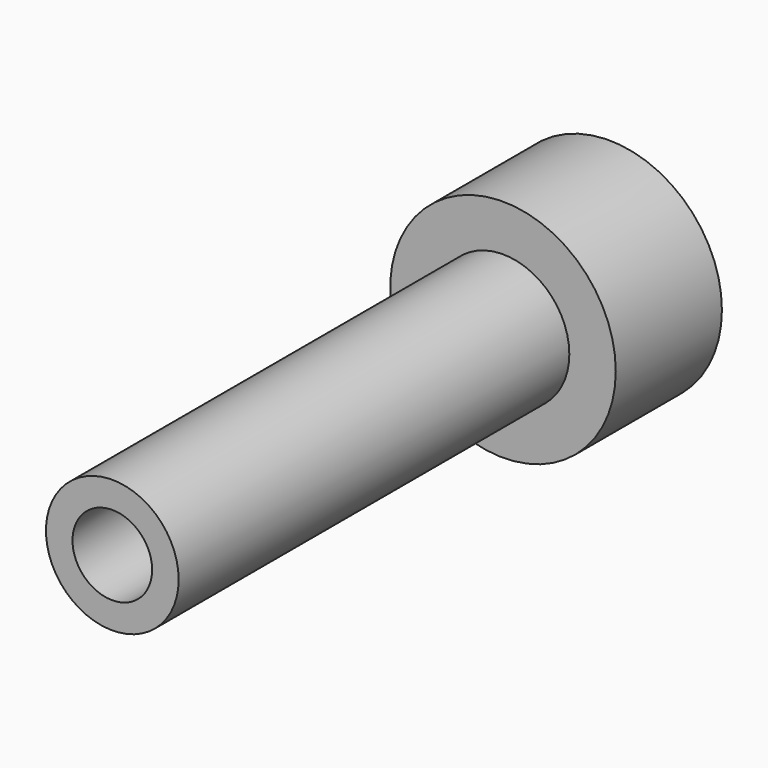
from build123d import *

# Parameters (mm, degrees)
F0_R     = 6.35
F1_DEPTH = 46.736
F2_R     = 10.795
F2_R_2   = 4
F3_DEPTH = 12.7
F4_R     = 3.81
F5_DEPTH = 7.62


with BuildPart() as f1:
    # F0 (on Front) → F1 (new body)
    with BuildSketch(Plane.XZ):
        Circle(F0_R)
    extrude(amount=F1_DEPTH)

    # F2 (on Front) → F3 (join)
    with BuildSketch(Plane.XZ):
        Circle(F2_R)
        Circle(F2_R_2, mode=Mode.SUBTRACT)
    extrude(amount=-F3_DEPTH)

    # F4 (on face) → F5 (cut)
    with BuildSketch(Plane.XZ.offset(46.736)):
        Circle(F4_R)
    extrude(amount=-F5_DEPTH, mode=Mode.SUBTRACT)


solid = f1.part
